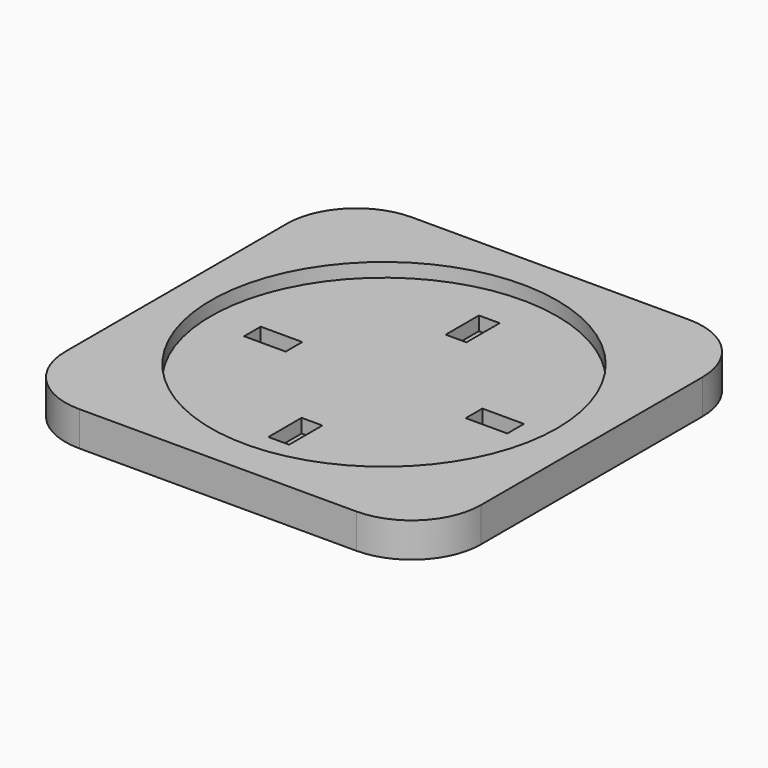
from build123d import *

# Parameters (mm, degrees)
F0_W     = 60
F0_H     = 60
F1_DEPTH = 5
F2_R     = 25
F3_DEPTH = 2
F4_R     = 10
F5_W     = 6
F5_H     = 3
F5_W_2   = 3
F5_H_2   = 6
F6_DEPTH = 2


with BuildPart() as f1:
    # F0 (on Top) → F1 (new body)
    with BuildSketch(Plane.XY):
        Rectangle(F0_W, F0_H)
    extrude(amount=F1_DEPTH)

    # F2 (on face) → F3 (cut)
    with BuildSketch(Plane.XY.offset(5)):
        Circle(F2_R)
    extrude(amount=-F3_DEPTH, mode=Mode.SUBTRACT)

    # F4
    f4_edges = [f1.edges().sort_by_distance(p)[0] for p in [
        (30, -30, 2.5),
        (30, 30, 2.5),
        (-30, 30, 2.5),
        (-30, -30, 2.5),
    ]]
    fillet(f4_edges, radius=F4_R)

    # F5 (on face) → F6 (cut)
    with BuildSketch(Plane.XY.offset(3)):
        with Locations((-16, 0)):
            Rectangle(F5_W, F5_H)
        with Locations((0, 16)):
            Rectangle(F5_W_2, F5_H_2)
        with Locations((16, 0)):
            Rectangle(F5_W, F5_H)
        with Locations((0, -16)):
            Rectangle(F5_W_2, F5_H_2)
    extrude(amount=-F6_DEPTH, mode=Mode.SUBTRACT)


solid = f1.part
